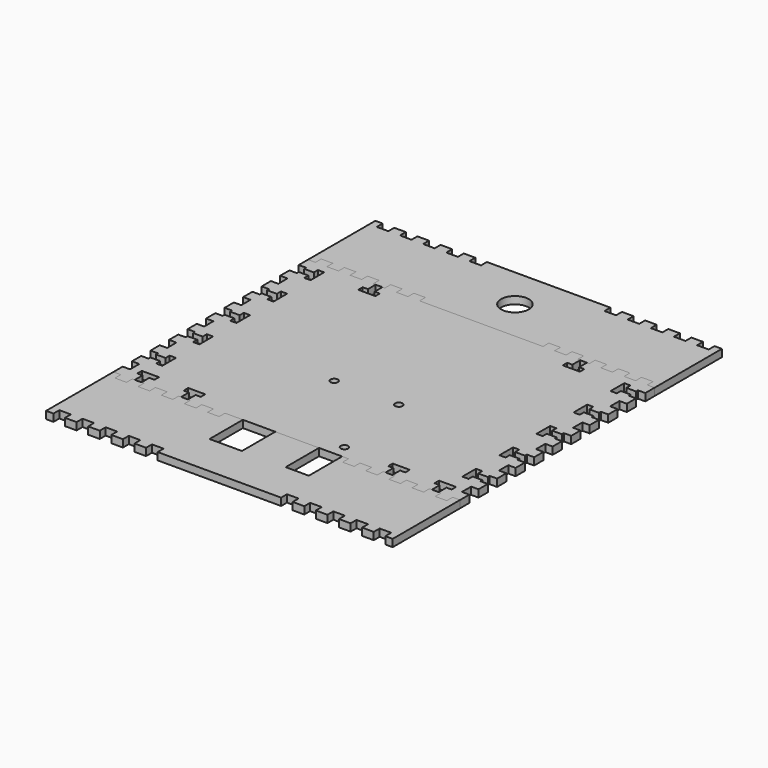
from build123d import *

# Parameters (mm, degrees)
F0_R     = 1.5875
F1_DEPTH = 3.175
F0_R_2   = 6
F2_DEPTH = 3.175
F3_DEPTH = 3.175


with BuildPart() as f1:
    # F0 (on Top) → F1 (new body)
    with BuildSketch(Plane.XY):
        Polygon((-4.94, 0), (0, 0), (13.94, 0), (23.94, 0), (26.65, 0), (26.65, -3.175), (31.65, -3.175), (31.65, 0), (36.65, 0), (36.65, -3.175), (41.65, -3.175), (41.65, 0), (42.6895, 0), (42.6895, 4.191), (40.467, 4.191), (40.467, 6.604), (42.6895, 6.604), (44.15, 6.604), (45.6105, 6.604), (47.833, 6.604), (47.833, 4.191), (45.6105, 4.191), (45.6105, 0), (46.65, 0), (46.65, -3.175), (51.65, -3.175), (51.65, 0), (56.65, 0), (56.65, -3.175), (61.65, -3.175), (61.65, 0), (62.6895, 0), (62.6895, 4.191), (60.467, 4.191), (60.467, 6.604), (62.6895, 6.604), (64.15, 6.604), (65.6105, 6.604), (67.833, 6.604), (67.833, 4.191), (65.6105, 4.191), (65.6105, 0), (66.65, 0), (66.65, -3.175), (71.65, -3.175), (71.65, 0), (74.825, 0), (74.825, 5), (71.65, 5), (71.65, 10), (74.825, 10), (74.825, 15), (71.65, 15), (71.65, 16.0395), (67.459, 16.0395), (67.459, 13.817), (64.785478, 13.817), (64.785478, 21.183), (67.459, 21.183), (67.459, 18.9605), (71.65, 18.9605), (71.65, 20), (74.825, 20), (74.825, 25), (71.65, 25), (71.65, 30), (74.825, 30), (74.825, 35), (71.65, 35), (71.65, 36.0395), (67.459, 36.0395), (67.459, 33.817), (64.785478, 33.817), (64.785478, 41.183), (67.459, 41.183), (67.459, 38.9605), (71.65, 38.9605), (71.65, 40), (74.825, 40), (74.825, 45), (71.65, 45), (71.65, 50), (74.825, 50), (74.825, 55), (71.65, 55), (71.65, 56.0395), (67.459, 56.0395), (67.459, 53.817), (64.785478, 53.817), (64.785478, 61.183), (67.459, 61.183), (67.459, 58.9605), (71.65, 58.9605), (71.65, 60), (74.825, 60), (74.825, 65), (71.65, 65), (71.65, 70), (74.825, 70), (74.825, 75), (71.65, 75), (71.65, 76.0395), (67.459, 76.0395), (67.459, 73.817), (64.785478, 73.817), (64.785478, 81.183), (67.459, 81.183), (67.459, 78.9605), (71.65, 78.9605), (71.65, 80), (74.825, 80), (74.825, 85), (71.65, 85), (71.65, 90), (74.825, 90), (74.825, 95), (71.65, 95), (71.65, 96.0395), (67.459, 96.0395), (67.459, 93.817), (64.785478, 93.817), (64.785478, 101.183), (67.459, 101.183), (67.459, 98.9605), (71.65, 98.9605), (71.65, 100), (74.825, 100), (74.825, 105), (71.65, 105), (71.65, 108.175), (66.65, 108.175), (66.65, 105), (61.65, 105), (61.65, 108.175), (56.65, 108.175), (56.65, 105), (51.65, 105), (51.65, 108.175), (46.65, 108.175), (46.65, 105), (45.6105, 105), (45.6105, 100.809), (47.833, 100.809), (47.833, 98.396), (45.6105, 98.396), (44.15, 98.396), (42.6895, 98.396), (40.467, 98.396), (40.467, 100.809), (42.6895, 100.809), (42.6895, 105), (41.65, 105), (41.65, 108.175), (36.65, 108.175), (36.65, 105), (31.65, 105), (31.65, 108.175), (26.65, 108.175), (26.65, 105), (14.694, 105), (0, 105), (-14.694, 105), (-26.65, 105), (-26.65, 108.175), (-31.65, 108.175), (-31.65, 105), (-36.65, 105), (-36.65, 108.175), (-41.65, 108.175), (-41.65, 105), (-42.6895, 105), (-42.6895, 100.809), (-40.467, 100.809), (-40.467, 98.396), (-42.6895, 98.396), (-44.15, 98.396), (-45.6105, 98.396), (-47.833, 98.396), (-47.833, 100.809), (-45.6105, 100.809), (-45.6105, 105), (-46.65, 105), (-46.65, 108.175), (-51.65, 108.175), (-51.65, 105), (-56.65, 105), (-56.65, 108.175), (-61.65, 108.175), (-61.65, 105), (-66.65, 105), (-66.65, 108.175), (-71.65, 108.175), (-71.65, 105), (-74.825, 105), (-74.825, 100), (-71.65, 100), (-71.65, 98.9605), (-67.459, 98.9605), (-67.459, 101.183), (-64.785478, 101.183), (-64.785478, 93.817), (-67.459, 93.817), (-67.459, 96.0395), (-71.65, 96.0395), (-71.65, 95), (-74.825, 95), (-74.825, 90), (-71.65, 90), (-71.65, 85), (-74.825, 85), (-74.825, 80), (-71.65, 80), (-71.65, 78.9605), (-67.459, 78.9605), (-67.459, 81.183), (-64.785478, 81.183), (-64.785478, 73.817), (-67.459, 73.817), (-67.459, 76.0395), (-71.65, 76.0395), (-71.65, 75), (-74.825, 75), (-74.825, 70), (-71.65, 70), (-71.65, 65), (-74.825, 65), (-74.825, 60), (-71.65, 60), (-71.65, 58.9605), (-67.459, 58.9605), (-67.459, 61.183), (-64.785478, 61.183), (-64.785478, 53.817), (-67.459, 53.817), (-67.459, 56.0395), (-71.65, 56.0395), (-71.65, 55), (-74.825, 55), (-74.825, 50), (-71.65, 50), (-71.65, 45), (-74.825, 45), (-74.825, 40), (-71.65, 40), (-71.65, 38.9605), (-67.459, 38.9605), (-67.459, 41.183), (-64.785478, 41.183), (-64.785478, 33.817), (-67.459, 33.817), (-67.459, 36.0395), (-71.65, 36.0395), (-71.65, 35), (-74.825, 35), (-74.825, 30), (-71.65, 30), (-71.65, 25), (-74.825, 25), (-74.825, 20), (-71.65, 20), (-71.65, 18.9605), (-67.459, 18.9605), (-67.459, 21.183), (-64.785478, 21.183), (-64.785478, 13.817), (-67.459, 13.817), (-67.459, 16.0395), (-71.65, 16.0395), (-71.65, 15), (-74.825, 15), (-74.825, 10), (-71.65, 10), (-71.65, 5), (-74.825, 5), (-74.825, 0), (-71.65, 0), (-71.65, -3.175), (-66.65, -3.175), (-66.65, 0), (-65.6105, 0), (-65.6105, 4.191), (-67.833, 4.191), (-67.833, 6.604), (-65.6105, 6.604), (-64.15, 6.604), (-62.6895, 6.604), (-60.467, 6.604), (-60.467, 4.191), (-62.6895, 4.191), (-62.6895, 0), (-61.65, 0), (-61.65, -3.175), (-56.65, -3.175), (-56.65, 0), (-51.65, 0), (-51.65, -3.175), (-46.65, -3.175), (-46.65, 0), (-45.6105, 0), (-45.6105, 4.191), (-47.833, 4.191), (-47.833, 6.604), (-45.6105, 6.604), (-44.15, 6.604), (-42.6895, 6.604), (-40.467, 6.604), (-40.467, 4.191), (-42.6895, 4.191), (-42.6895, 0), (-41.65, 0), (-41.65, -3.175), (-36.65, -3.175), (-36.65, 0), (-31.65, 0), (-31.65, -3.175), (-26.65, -3.175), (-26.65, 0), (-18.94, 0), align=None)
        with Locations((-12.66, 41.435342)):
            Circle(F0_R, mode=Mode.SUBTRACT)
        with Locations((20.32, 5.751147)):
            Circle(F0_R, mode=Mode.SUBTRACT)
        with Locations((15.24, 41.435342)):
            Circle(F0_R, mode=Mode.SUBTRACT)
    extrude(amount=F1_DEPTH)


with BuildPart() as f2:
    # F0 (on Top) → F2 (new body)
    with BuildSketch(Plane.XY):
        Polygon((71.65, 105), (74.825, 105), (74.825, 108.175), (74.825, 138.175), (74.825, 141.35), (71.65, 141.35), (71.65, 138.175), (66.65, 138.175), (66.65, 141.35), (61.65, 141.35), (61.65, 138.175), (56.65, 138.175), (56.65, 141.35), (51.65, 141.35), (51.65, 138.175), (46.65, 138.175), (46.65, 141.35), (41.65, 141.35), (41.65, 138.175), (36.65, 138.175), (36.65, 141.35), (31.65, 141.35), (31.65, 138.175), (26.65, 138.175), (26.65, 141.35), (0, 141.35), (-26.65, 141.35), (-26.65, 138.175), (-31.65, 138.175), (-31.65, 141.35), (-36.65, 141.35), (-36.65, 138.175), (-41.65, 138.175), (-41.65, 141.35), (-46.65, 141.35), (-46.65, 138.175), (-51.65, 138.175), (-51.65, 141.35), (-56.65, 141.35), (-56.65, 138.175), (-61.65, 138.175), (-61.65, 141.35), (-66.65, 141.35), (-66.65, 138.175), (-71.65, 138.175), (-71.65, 141.35), (-74.825, 141.35), (-74.825, 138.175), (-74.825, 108.175), (-74.825, 105), (-71.65, 105), (-71.65, 108.175), (-66.65, 108.175), (-66.65, 105), (-61.65, 105), (-61.65, 108.175), (-56.65, 108.175), (-56.65, 105), (-51.65, 105), (-51.65, 108.175), (-46.65, 108.175), (-46.65, 105), (-45.6105, 105), (-42.6895, 105), (-41.65, 105), (-41.65, 108.175), (-36.65, 108.175), (-36.65, 105), (-31.65, 105), (-31.65, 108.175), (-26.65, 108.175), (-26.65, 105), (-14.694, 105), (0, 105), (14.694, 105), (26.65, 105), (26.65, 108.175), (31.65, 108.175), (31.65, 105), (36.65, 105), (36.65, 108.175), (41.65, 108.175), (41.65, 105), (42.6895, 105), (45.6105, 105), (46.65, 105), (46.65, 108.175), (51.65, 108.175), (51.65, 105), (56.65, 105), (56.65, 108.175), (61.65, 108.175), (61.65, 105), (66.65, 105), (66.65, 108.175), (71.65, 108.175), align=None)
        with Locations((0, 123.175)):
            Circle(F0_R_2, mode=Mode.SUBTRACT)
    extrude(amount=F2_DEPTH)


with BuildPart() as f3:
    # F0 (on Top) → F3 (new body)
    with BuildSketch(Plane.XY):
        Polygon((13.94, 0), (0, 0), (-4.94, 0), (-4.94, -18), (-18.94, -18), (-18.94, 0), (-26.65, 0), (-26.65, -3.175), (-31.65, -3.175), (-31.65, 0), (-36.65, 0), (-36.65, -3.175), (-41.65, -3.175), (-41.65, 0), (-42.6895, 0), (-45.6105, 0), (-46.65, 0), (-46.65, -3.175), (-51.65, -3.175), (-51.65, 0), (-56.65, 0), (-56.65, -3.175), (-61.65, -3.175), (-61.65, 0), (-62.6895, 0), (-65.6105, 0), (-66.65, 0), (-66.65, -3.175), (-71.65, -3.175), (-71.65, 0), (-74.825, 0), (-74.825, -3.175), (-74.825, -33.175), (-74.825, -36.35), (-71.65, -36.35), (-71.65, -33.175), (-66.65, -33.175), (-66.65, -36.35), (-61.65, -36.35), (-61.65, -33.175), (-56.65, -33.175), (-56.65, -36.35), (-51.65, -36.35), (-51.65, -33.175), (-46.65, -33.175), (-46.65, -36.35), (-41.65, -36.35), (-41.65, -33.175), (-36.65, -33.175), (-36.65, -36.35), (-31.65, -36.35), (-31.65, -33.175), (-26.65, -33.175), (-26.65, -36.35), (0, -36.35), (26.65, -36.35), (26.65, -33.175), (31.65, -33.175), (31.65, -36.35), (36.65, -36.35), (36.65, -33.175), (41.65, -33.175), (41.65, -36.35), (46.65, -36.35), (46.65, -33.175), (51.65, -33.175), (51.65, -36.35), (56.65, -36.35), (56.65, -33.175), (61.65, -33.175), (61.65, -36.35), (66.65, -36.35), (66.65, -33.175), (71.65, -33.175), (71.65, -36.35), (74.825, -36.35), (74.825, -33.175), (74.825, -3.175), (74.825, 0), (71.65, 0), (71.65, -3.175), (66.65, -3.175), (66.65, 0), (65.6105, 0), (62.6895, 0), (61.65, 0), (61.65, -3.175), (56.65, -3.175), (56.65, 0), (51.65, 0), (51.65, -3.175), (46.65, -3.175), (46.65, 0), (45.6105, 0), (42.6895, 0), (41.65, 0), (41.65, -3.175), (36.65, -3.175), (36.65, 0), (31.65, 0), (31.65, -3.175), (26.65, -3.175), (26.65, 0), (23.94, 0), (23.94, -18), (13.94, -18), align=None)
    extrude(amount=F3_DEPTH)


solid = Compound([f1.part, f2.part, f3.part])
